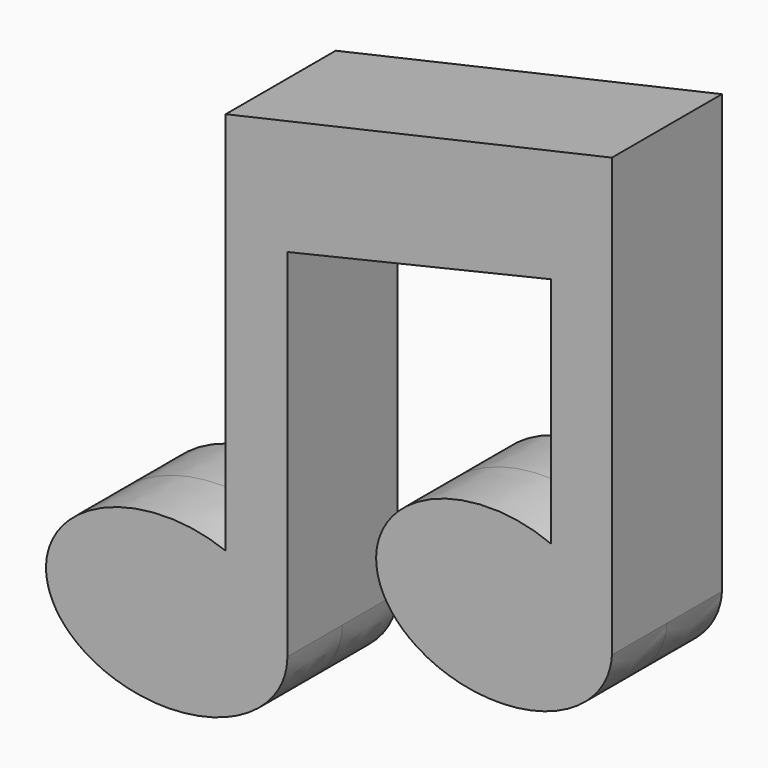
from build123d import *

# Parameters (mm, degrees)
F1_DEPTH = 2.5


with BuildPart() as f1:
    # F0 (on Front) → F1 (new body, symmetric)
    with BuildSketch(Plane.XZ):
        with BuildLine():
            Line((7.820046, 10.395377), (-6.223487, 7.219412))
            Line((-6.223487, 7.219412), (-6.223487, -6.759358))
            add(Edge.make_bspline(
                [(-3.982212, -9.421213), (-3.982212, -7.633735), (-6.223487, -6.759358)],
                knots=[0, 0, 0, 1.059661, 1.059661, 1.059661], degree=2, weights=[1, 0.862893, 1]))
            Line((-3.982212, -9.421213), (-3.982212, 3.537209))
            Line((-3.982212, 3.537209), (5.60906, 5.781974))
            Line((5.60906, 5.781974), (5.60906, -2.686916))
            add(Edge.make_bspline(
                [(7.820046, -5.314203), (7.737494, -3.576766), (5.60906, -2.686916)],
                knots=[0.067901, 0.067901, 0.067901, 1.099762, 1.099762, 1.099762], degree=2, weights=[1, 0.869834, 1]))
            Line((7.820046, -5.314203), (7.820046, 10.395377))
        make_face()
        with BuildLine():
            add(Edge.make_bspline(
                [(-3.982212, -9.421213), (-3.982212, -7.633735), (-6.223487, -6.759358)],
                knots=[0, 0, 0, 1.059661, 1.059661, 1.059661], degree=2, weights=[1, 0.862893, 1]))
            add(Edge.make_bspline(
                [(-6.223487, -6.759358), (-20.329085, -1.256416), (-12.155648, -10.963615), (-3.982212, -20.670814), (-3.982212, -9.421213)],
                knots=[1.059661, 1.059661, 1.059661, 3.671423, 3.671423, 6.283185, 6.283185, 6.283185], degree=2, weights=[1, 0.261827, 1, 0.261827, 1]))
        make_face()
        with BuildLine():
            Line((7.820046, -5.522056), (7.820046, -5.314203))
            add(Edge.make_bspline(
                [(7.820046, -5.314203), (7.737494, -3.576766), (5.60906, -2.686916)],
                knots=[0.067901, 0.067901, 0.067901, 1.099762, 1.099762, 1.099762], degree=2, weights=[1, 0.869834, 1]))
            add(Edge.make_bspline(
                [(5.60906, -2.686916), (-7.694477, 2.874991), (-0.195205, -6.741302), (7.304068, -16.357596), (7.820046, -5.522056)],
                knots=[1.099762, 1.099762, 1.099762, 3.691474, 3.691474, 6.283185, 6.283185, 6.283185], degree=2, weights=[1, 0.27149, 1, 0.27149, 1]))
        make_face()
    extrude(amount=F1_DEPTH, both=True)


solid = f1.part
